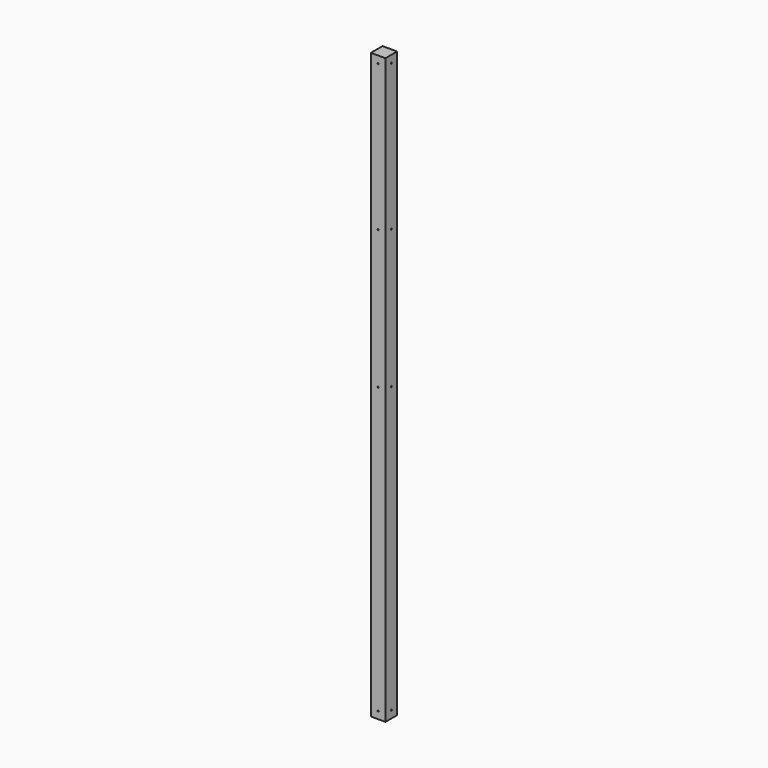
from build123d import *

# Parameters (mm, degrees)
F1_W       = 60
F1_H       = 60
F2_DEPTH   = 2400
F5_D       = 5
F5_ON_F3_D = 5


with BuildPart() as f2:
    # F1 (on Top) → F2 (new body)
    with BuildSketch(Plane.XY):
        Rectangle(F1_W, F1_H)
    extrude(amount=F2_DEPTH)

    # F5 (through all)
    with Locations(Plane(origin=(0, 30, 0), x_dir=(-1, 0, 0), z_dir=(0, 1, 0))):
        with Locations((0, 1200), (0, 30), (0, 2370), (0, 1770)):
            Hole(F5_D / 2)

    # F5 on F3 (through all)
    with Locations(Plane(origin=(-30, 0, 0), x_dir=(0, -1, 0), z_dir=(-1, 0, 0))):
        with Locations((0, 1200), (0, 30), (0, 2370), (0, 1770)):
            Hole(F5_ON_F3_D / 2)


solid = f2.part
